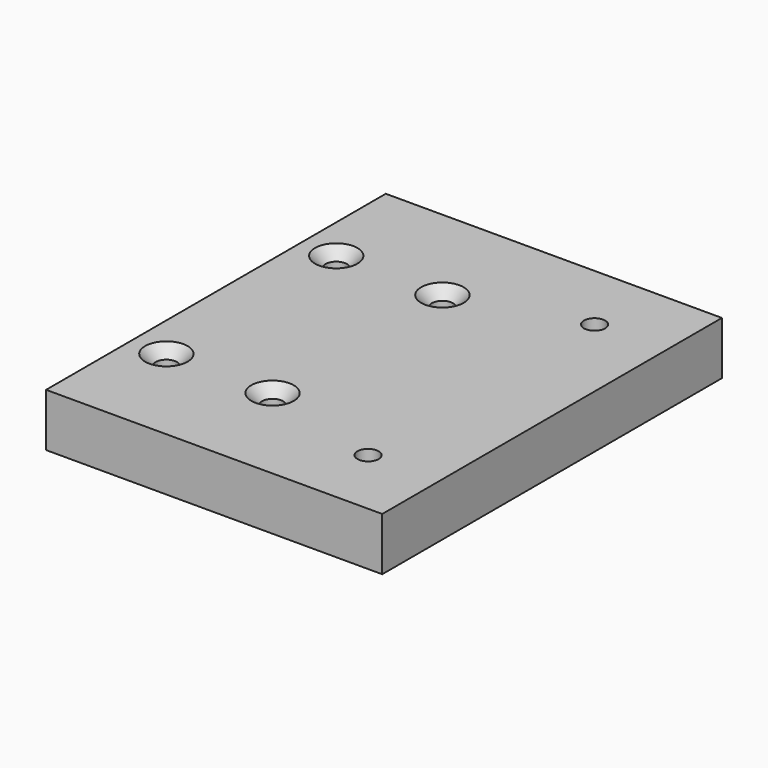
from build123d import *

# Parameters (mm, degrees)
F0_W           = 95
F0_H           = 120
F0_R           = 3
F1_DEPTH       = 15
F2_D           = 6
F2_CSINK_D     = 12
F2_CSINK_ANGLE = 90
F3_D           = 6


with BuildPart() as f1:
    # F0 (on Top) → F1 (new body)
    with BuildSketch(Plane.XY):
        Rectangle(F0_W, F0_H)
        with Locations((-37.5, -30)):
            Circle(F0_R, mode=Mode.SUBTRACT)
        with Locations((-7.5, -30)):
            Circle(F0_R, mode=Mode.SUBTRACT)
        with Locations((27.5, -40)):
            Circle(F0_R, mode=Mode.SUBTRACT)
        with Locations((-37.5, 30)):
            Circle(F0_R, mode=Mode.SUBTRACT)
        with Locations((-7.5, 30)):
            Circle(F0_R, mode=Mode.SUBTRACT)
        with Locations((27.5, 40)):
            Circle(F0_R, mode=Mode.SUBTRACT)
        with Locations((-37.5, 30)):
            Circle(F0_R)
        with Locations((-37.5, -30)):
            Circle(F0_R)
        with Locations((-7.5, -30)):
            Circle(F0_R)
        with Locations((27.5, -40)):
            Circle(F0_R)
        with Locations((-7.5, 30)):
            Circle(F0_R)
        with Locations((27.5, 40)):
            Circle(F0_R)
    extrude(amount=-F1_DEPTH)

    # F2 (through all)
    with Locations(Plane.XY):
        with Locations((-37.5, 30), (-7.5, 30), (-37.5, -30), (-7.5, -30)):
            CounterSinkHole(F2_D / 2, F2_CSINK_D / 2, counter_sink_angle=F2_CSINK_ANGLE)

    # F3 (through all)
    with Locations(Plane.XY):
        with Locations((27.5, 40), (27.5, -40)):
            Hole(F3_D / 2)


solid = f1.part
